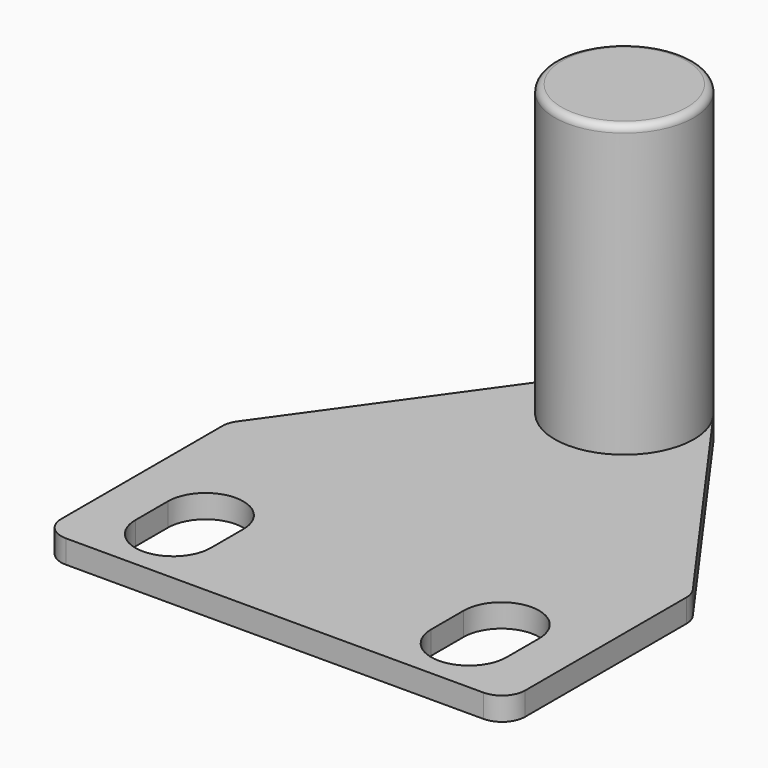
from build123d import *

# Parameters (mm, degrees)
PAD_DEPTH    = 2
SKETCH001_R  = 6
PAD001_DEPTH = 25
SKETCH002_R  = 1.5
PAD002_DEPTH = 1
FILLET_R     = 2
FILLET001_R  = 0.6
CHAMFER_SIZE = 0.5


with BuildPart() as part:
    # Sketch → Pad (new body)
    with BuildSketch(Plane.XY):
        with BuildLine():
            Line((-20, 0), (20, 0))
            Line((20, 0), (20, 20))
            Line((20, 20), (4.882401, 41.164639))
            ThreePointArc((4.882401, 41.164639), (0, 43.67721), (-4.882401, 41.164639))
            Line((-4.882401, 41.164639), (-20, 20))
            Line((-20, 20), (-20, 0))
        make_face()
        with BuildLine():
            ThreePointArc((16, 8.5), (12.75, 11.75), (9.5, 8.5))
            Line((9.5, 8.5), (9.5, 5))
            ThreePointArc((9.5, 5), (12.75, 1.75), (16, 5))
            Line((16, 8.5), (16, 5))
        make_face(mode=Mode.SUBTRACT)
        with BuildLine():
            ThreePointArc((-9.5, 8.5), (-12.75, 11.75), (-16, 8.5))
            Line((-16, 8.5), (-16, 5))
            ThreePointArc((-16, 5), (-12.75, 1.75), (-9.5, 5))
            Line((-9.5, 8.5), (-9.5, 5))
        make_face(mode=Mode.SUBTRACT)
    extrude(amount=PAD_DEPTH)

    # Sketch001 (on Face16 of Pad) → Pad001 (join)
    with BuildSketch(Plane.XY.offset(2)):
        with Locations((0, 37.67721)):
            Circle(SKETCH001_R)
    extrude(amount=PAD001_DEPTH)

    # Sketch002 (on Face4 of Pad001) → Pad002 (join)
    with BuildSketch(Plane(origin=(0, 0, 0), x_dir=(1, 0, 0), z_dir=(0, 0, -1))):
        with Locations((0, -37.67721)):
            Circle(SKETCH002_R)
    extrude(amount=PAD002_DEPTH)

    # Fillet
    fillet_edges = [part.edges().sort_by_distance(p)[0] for p in [
        (20, 0, 1),
        (-20, 0, 1),
        (-20, 20, 1),
        (20, 20, 1),
    ]]
    fillet(fillet_edges, radius=FILLET_R)

    # Fillet001
    fillet001_edges = [part.edges().sort_by_distance(p)[0] for p in [
        (-6, 37.67721, 27),
    ]]
    fillet(fillet001_edges, radius=FILLET001_R)

    # Chamfer
    chamfer_edges = [part.edges().sort_by_distance(p)[0] for p in [
        (-1.5, 37.67721, -1),
    ]]
    chamfer(chamfer_edges, length=CHAMFER_SIZE)


solid = part.part
